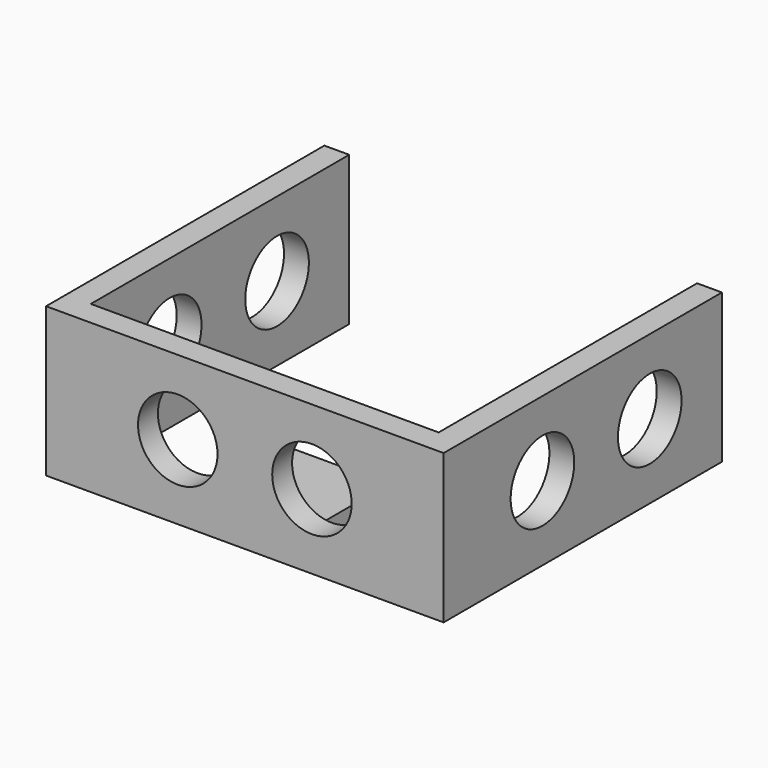
from build123d import *

# Parameters (mm, degrees)
F0_W     = 5
F0_H     = 65
F1_DEPTH = 15
F2_R     = 8
F3_DEPTH = 12.5
F6_DEPTH = 50
F9_START = -10
F8_W     = 20
F8_H     = 20
F9_DEPTH = 5


with BuildPart() as f1:
    # F0 (on Top) → F1 (new body, symmetric)
    with BuildSketch(Plane.XY):
        Polygon((40, -2.5), (40, 2.5), (35, 2.5), (-35, 2.5), (-40, 2.5), (-40, -2.5), align=None)
        with Locations((37.5, 35)):
            Rectangle(F0_W, F0_H)
        with Locations((-37.5, 35)):
            Rectangle(F0_W, F0_H)
    extrude(amount=F1_DEPTH, both=True)


with BuildPart() as f3:
    # F2 (on Front) → F3 (new body, symmetric)
    with BuildSketch(Plane.XZ):
        with Locations((-13.5, 0)):
            Circle(F2_R)
    extrude(amount=F3_DEPTH, both=True)


with BuildPart() as f3b:
    # F2 (on Front) → F3, piece 2 (new body, symmetric)
    with BuildSketch(Plane.XZ):
        with BuildLine():
            ThreePointArc((21.5, 0), (13.5, 8), (5.5, 0))
            ThreePointArc((5.5, 0), (13.5, -8), (21.5, 0))
        make_face()
    extrude(amount=F3_DEPTH, both=True)


with BuildPart() as f1_1:
    add(f1.part)

    # F4: cut F3, F3b
    add(f3.part, mode=Mode.SUBTRACT)
    add(f3b.part, mode=Mode.SUBTRACT)


with BuildPart() as f6:
    # F5 (on Right) → F6 (new body, symmetric)
    with BuildSketch(Plane.YZ):
        with BuildLine():
            Line((22.3510495666, 0), (30.3510495666, 0))
            ThreePointArc((30.3510495666, 0), (22.3510495666, 8), (14.3510495666, 0))
            Line((14.3510495666, 0), (22.3510495666, 0))
        make_face()
        with BuildLine():
            ThreePointArc((14.3510495666, 0), (22.3510495666, -8), (30.3510495666, 0))
            Line((30.3510495666, 0), (22.3510495666, 0))
            Line((22.3510495666, 0), (14.3510495666, 0))
        make_face()
    extrude(amount=F6_DEPTH, both=True)


with BuildPart() as f6b:
    # F5 (on Right) → F6, piece 2 (new body, symmetric)
    with BuildSketch(Plane.YZ):
        with BuildLine():
            ThreePointArc((57.3510495666, 0), (49.3510495666, 8), (41.3510495666, 0))
            ThreePointArc((41.3510495666, 0), (49.3510495666, -8), (57.3510495666, 0))
        make_face()
    extrude(amount=F6_DEPTH, both=True)


with BuildPart() as f1_2:
    add(f1_1.part)

    # F7: cut F6, F6b
    add(f6.part, mode=Mode.SUBTRACT)
    add(f6b.part, mode=Mode.SUBTRACT)

    # F8 (on Top) → F9 (join)
    with BuildSketch(Plane.XY.offset(F9_START)):
        with Locations((-0.1337498054, 11.3596525043)):
            Rectangle(F8_W, F8_H)
    extrude(amount=-F9_DEPTH)


solid = f1_2.part
